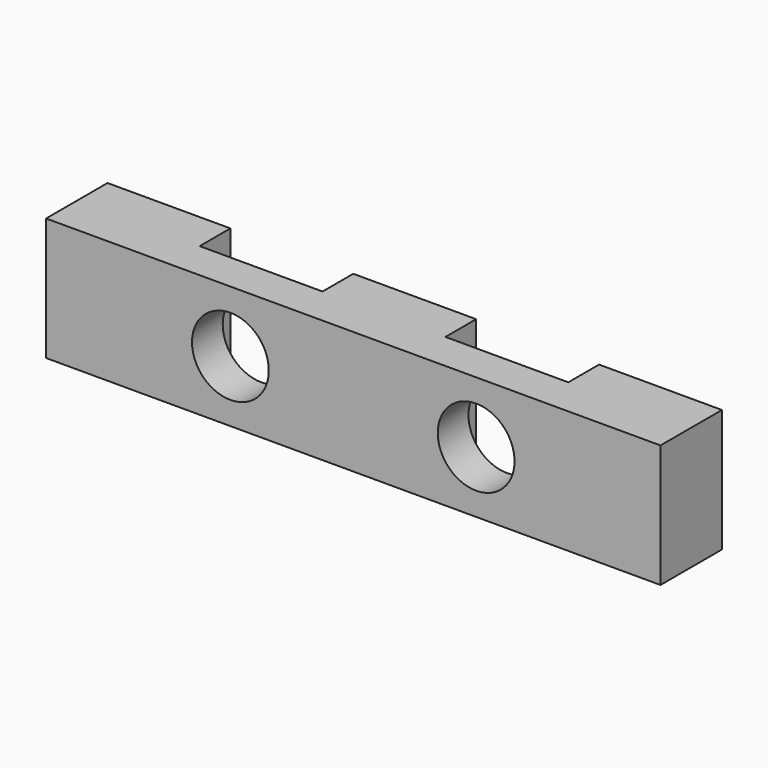
from build123d import *

# Parameters (mm, degrees)
F0_W     = 8
F0_H     = 2.5
F1_DEPTH = 8
F2_R     = 2.5
F3_DEPTH = 4.05972


with BuildPart() as f1:
    # F0 (on Top) → F1 (new body)
    with BuildSketch(Plane.XY):
        Polygon((-7.984976, 5), (-7.984976, 0), (0.015024, 0), (0.015024, 2.5), (0.015024, 5), align=None)
        with Locations((4.015024, 1.25)):
            Rectangle(F0_W, F0_H)
        Polygon((8.015024, 2.5), (8.015024, 0), (16.015024, 0), (16.015024, 2.5), (16.015024, 5), (8.015024, 5), align=None)
        with Locations((20.015024, 1.25)):
            Rectangle(F0_W, F0_H)
        Polygon((24.015024, 2.5), (24.015024, 0), (32.015024, 0), (32.015024, 5), (24.015024, 5), align=None)
    extrude(amount=F1_DEPTH)

    # F2 (on face) → F3 (cut)
    with BuildSketch(Plane(origin=(0, 2.5, 0), x_dir=(-1, 0, 0), z_dir=(0, 1, 0))):
        with Locations((-20.015024, 4)):
            Circle(F2_R)
        with Locations((-4.015024, 4)):
            Circle(F2_R)
    extrude(amount=-F3_DEPTH, mode=Mode.SUBTRACT)


solid = f1.part
